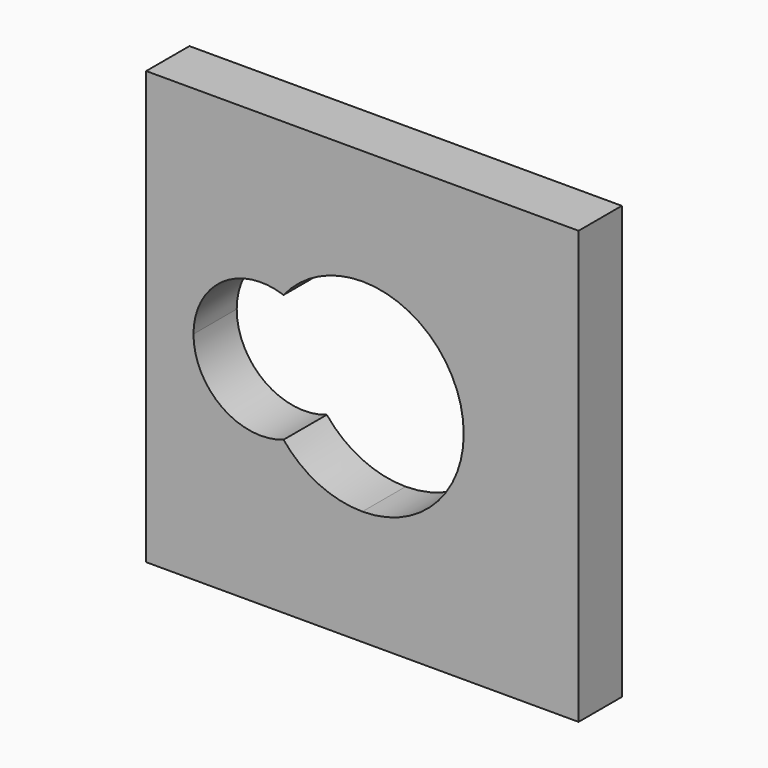
from build123d import *

# Parameters (mm, degrees)
F1_DEPTH = 3.175


with BuildPart() as f1:
    # F0 (on Front) → F1 (new body)
    with BuildSketch(Plane.XZ):
        with BuildLine():
            Line((-25.0390999136, 10.2285252111), (-37.7390999136, 10.2285252111))
            Line((-37.7390999136, 10.2285252111), (-37.7390999136, -2.4714747889))
            Line((-37.7390999136, -2.4714747889), (-34.9609749136, -2.4714747889))
            ThreePointArc((-34.9609749136, -2.4714747889), (-33.2835837944, 0.7689960166), (-29.6693082469, 1.2702985949))
            ThreePointArc((-29.6693082469, 1.2702985949), (-27.6046848946, 2.90044023), (-25.0390999136, 3.4816502111))
            Line((-25.0390999136, 3.4816502111), (-25.0390999136, 10.2285252111))
        make_face()
        with BuildLine():
            Line((-12.3390999136, 10.2285252111), (-25.0390999136, 10.2285252111))
            Line((-25.0390999136, 10.2285252111), (-25.0390999136, 3.4816502111))
            ThreePointArc((-25.0390999136, 3.4816502111), (-20.8296048568, 1.7380202678), (-19.0859749136, -2.4714747889))
            Line((-19.0859749136, -2.4714747889), (-12.3390999136, -2.4714747889))
            Line((-12.3390999136, -2.4714747889), (-12.3390999136, 10.2285252111))
        make_face()
        with BuildLine():
            Line((-12.3390999136, -15.1714747889), (-12.3390999136, -2.4714747889))
            Line((-12.3390999136, -2.4714747889), (-19.0859749136, -2.4714747889))
            ThreePointArc((-19.0859749136, -2.4714747889), (-20.8296048568, -6.6809698457), (-25.0390999136, -8.4245997889))
            Line((-25.0390999136, -8.4245997889), (-25.0390999136, -15.1714747889))
            Line((-25.0390999136, -15.1714747889), (-12.3390999136, -15.1714747889))
        make_face()
        with BuildLine():
            Line((-34.9609749136, -2.4714747889), (-37.7390999136, -2.4714747889))
            Line((-37.7390999136, -2.4714747889), (-37.7390999136, -15.1714747889))
            Line((-37.7390999136, -15.1714747889), (-25.0390999136, -15.1714747889))
            Line((-25.0390999136, -15.1714747889), (-25.0390999136, -8.4245997889))
            ThreePointArc((-25.0390999136, -8.4245997889), (-27.6046848946, -7.8433898078), (-29.6693082469, -6.2132481727))
            ThreePointArc((-29.6693082469, -6.2132481727), (-33.2835837944, -5.7119455945), (-34.9609749136, -2.4714747889))
        make_face()
    extrude(amount=F1_DEPTH)


solid = f1.part
